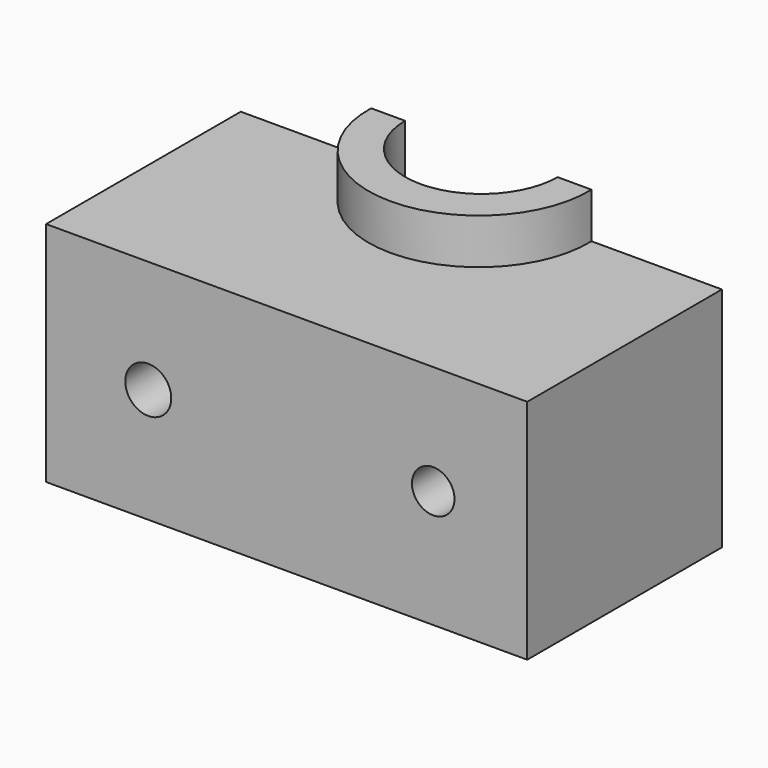
from build123d import *

# Parameters (mm, degrees)
F0_W      = 269.0858095884
F0_H      = 136.0893808305
F1_DEPTH  = 127
F2_R      = 42.6246558772
F3_DEPTH  = 127.001
F5_DEPTH  = 25.4
F7_DEPTH  = 25.4
F8_R      = 12.8692359505
F9_DEPTH  = 136.0903808305
F10_R     = 11.8876823155
F11_DEPTH = 136.0903808305


with BuildPart() as f1:
    # F0 (on Top) → F1 (new body)
    with BuildSketch(Plane.XY):
        with Locations((-20.9878012538, -17.8948733956)):
            Rectangle(F0_W, F0_H)
    extrude(amount=F1_DEPTH)

    # F2 (on face) → F3 (cut, through all)
    with BuildSketch(Plane.XY.offset(127)):
        with Locations((-20.9878012538, 50.1498170197)):
            Circle(F2_R)
    extrude(amount=-F3_DEPTH, mode=Mode.SUBTRACT)

    # F4 (on face) → F5 (join)
    with BuildSketch(Plane(origin=(0, 0, 0), x_dir=(1, 0, 0), z_dir=(0, 0, -1))):
        with BuildLine():
            Line((21.6368546234, -50.1498170197), (40.624178946, -50.1498170197))
            ThreePointArc((40.624178946, -50.1498170197), (-20.9878012538, 12.1844288341), (-82.5997814536, -50.1498170197))
            Line((-82.5997814536, -50.1498170197), (-63.612457131, -50.1498170197))
            ThreePointArc((-63.612457131, -50.1498170197), (-20.9878012538, -7.6825284563), (21.6368546234, -50.1498170197))
        make_face()
    extrude(amount=F5_DEPTH)

    # F6 (on face) → F7 (join)
    with BuildSketch(Plane.XY.offset(127)):
        with BuildLine():
            ThreePointArc((21.6368546234, 50.1498170197), (-20.9878012538, 7.6304695536), (-63.612457131, 50.1498170197))
            Line((-63.612457131, 50.1498170197), (-82.5997814536, 50.1498170197))
            ThreePointArc((-82.5997814536, 50.1498170197), (-20.9878012538, -13.3016428499), (40.624178946, 50.1498170197))
            Line((40.624178946, 50.1498170197), (21.6368546234, 50.1498170197))
        make_face()
    extrude(amount=F7_DEPTH)

    # F8 (on face) → F9 (cut, through all)
    with BuildSketch(Plane(origin=(0, 50.1498170197, 0), x_dir=(-1, 0, 0), z_dir=(0, 1, 0))):
        with Locations((98.3830988407, 63.9618188143)):
            Circle(F8_R)
    extrude(amount=-F9_DEPTH, mode=Mode.SUBTRACT)

    # F10 (on face) → F11 (cut, through all)
    with BuildSketch(Plane.XZ.offset(85.9395638108)):
        with Locations((60.9713494778, 65.8634230494)):
            Circle(F10_R)
    extrude(amount=-F11_DEPTH, mode=Mode.SUBTRACT)


solid = f1.part
